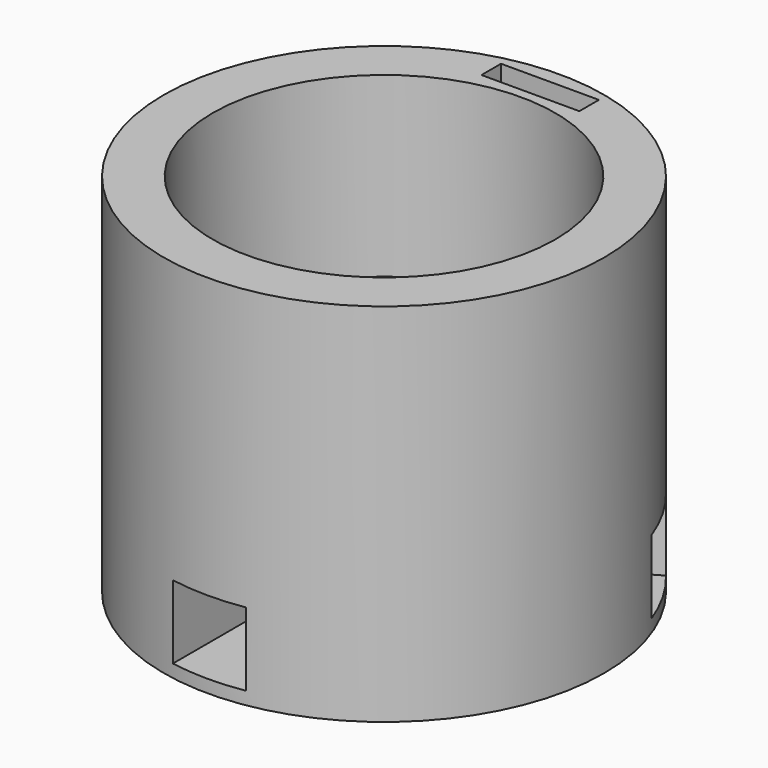
from build123d import *

# Parameters (mm, degrees)
SKETCH_R           = 18
PAD_DEPTH          = 30
SKETCH001_R        = 14
POCKET_DEPTH       = 20
SKETCH002_R        = 5
PAD001_DEPTH       = 2
SKETCH003_R        = 4
PAD002_DEPTH       = 9
FILLET_R           = 1
SKETCH004_W        = 47.033489
SKETCH004_H        = 47.446069
PAD003_DEPTH       = 10
SKETCH005_W        = 6
SKETCH005_H        = 6
POCKET001_DEPTH    = 15
POLARPATTERN_COUNT = 3
SKETCH006_W        = 48.40057
SKETCH006_H        = 10.44081
POCKET002_DEPTH    = 47.447069
SKETCH007_W        = 8
SKETCH007_H        = 2
POCKET003_DEPTH    = 8


with BuildPart() as part:
    # Sketch → Pad (new body)
    with BuildSketch(Plane.XY):
        Circle(SKETCH_R)
    extrude(amount=PAD_DEPTH)

    # Sketch001 (on Face3 of Pad) → Pocket (cut)
    with BuildSketch(Plane.XY.offset(30)):
        Circle(SKETCH001_R)
    extrude(amount=-POCKET_DEPTH, mode=Mode.SUBTRACT)

    # Sketch002 (on Face5 of Pocket) → Pad001 (join)
    with BuildSketch(Plane.XY.offset(10)):
        Circle(SKETCH002_R)
    extrude(amount=PAD001_DEPTH)

    # Sketch003 (on Face7 of Pad001) → Pad002 (join)
    with BuildSketch(Plane.XY.offset(12)):
        Circle(SKETCH003_R)
    extrude(amount=PAD002_DEPTH)

    # Fillet
    fillet_edges = [part.edges().sort_by_distance(p)[0] for p in [
        (-4, 0, 21),
    ]]
    fillet(fillet_edges, radius=FILLET_R)

    # Sketch004 (on Face8 of Fillet) → Pad003 (join)
    with BuildSketch(Plane.XY.offset(30)):
        with Locations((0.145404, -0.183003)):
            Rectangle(SKETCH004_W, SKETCH004_H)
    extrude(amount=PAD003_DEPTH)

    # Sketch005 (on Face6 of Pad003) → Pocket001 (cut)
    with BuildSketch(Plane.XZ.offset(23.906038)):
        with Locations((-0.069517, 4.047801)):
            Rectangle(SKETCH005_W, SKETCH005_H)
    pocket001 = extrude(amount=-POCKET001_DEPTH, mode=Mode.SUBTRACT)

    # PolarPattern: Pocket001 ×3 about axis
    polarpattern_axis = Axis((0, 0, 0), (0, 0, 1))
    for i in range(1, POLARPATTERN_COUNT):
        add(pocket001.rotate(polarpattern_axis, i * 360 / POLARPATTERN_COUNT), mode=Mode.SUBTRACT)

    # Sketch006 (on Face6 of PolarPattern) → Pocket002 (cut, through all)
    with BuildSketch(Plane.XZ.offset(23.906038)):
        with Locations((0.264744, 35.122468)):
            Rectangle(SKETCH006_W, SKETCH006_H)
    extrude(amount=-POCKET002_DEPTH, mode=Mode.SUBTRACT)

    # Sketch007 (on Face2 of Pocket002) → Pocket003 (cut)
    with BuildSketch(Plane.XY.offset(29.902063)):
        with Locations((0.118946, 15.807168)):
            Rectangle(SKETCH007_W, SKETCH007_H)
    extrude(amount=-POCKET003_DEPTH, mode=Mode.SUBTRACT)


solid = part.part
